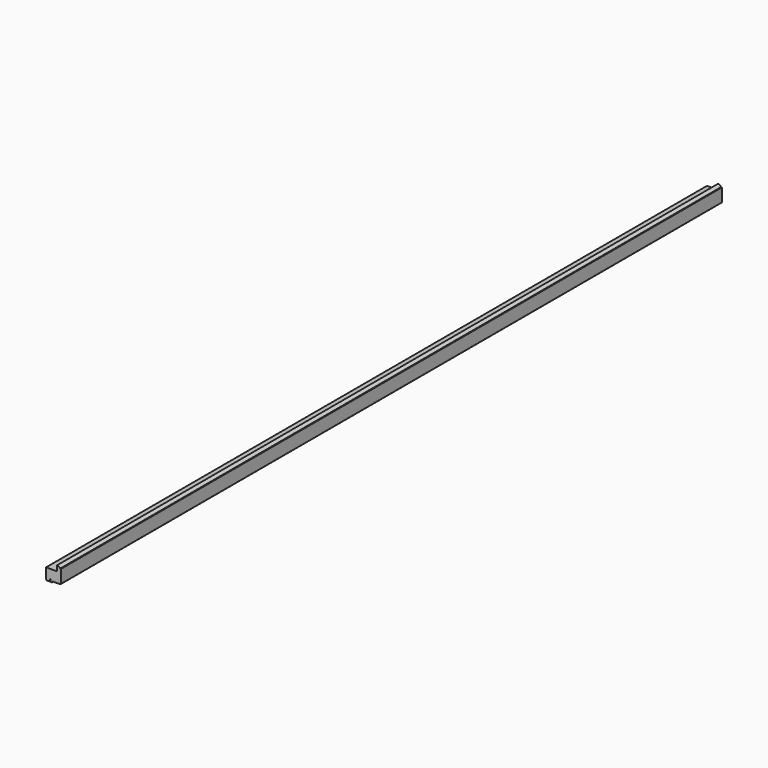
from build123d import *

# Parameters (mm, degrees)
F1_DEPTH = 2438.4


with BuildPart() as f1:
    # F0 (on Front) → F1 (new body)
    with BuildSketch(Plane.XZ):
        with BuildLine():
            ThreePointArc((-3.175, 2.9464), (-0.929936, 3.876336), (0, 6.1214))
            Line((0, 6.1214), (0, 43.8404))
            Line((0, 43.8404), (-2.413, 43.8404))
            ThreePointArc((-2.413, 43.8404), (-6.213483, 47.76885), (-11.3792, 49.5554))
            Line((-11.3792, 49.5554), (-11.3792, 33.4899))
            Line((-11.3792, 33.4899), (-44.1452, 33.4899))
            Line((-44.1452, 33.4899), (-44.1452, 3.175))
            ThreePointArc((-44.1452, 3.175), (-43.215264, 0.929936), (-40.9702, 0))
            Line((-40.9702, 0), (-32.6517, 0))
            Line((-32.6517, 0), (-32.6517, 7.62))
            Line((-32.6517, 7.62), (-30.7721, 7.62))
            Line((-30.7721, 7.62), (-30.7721, 0))
            Line((-30.7721, 0), (-26.9621, 0))
            ThreePointArc((-26.9621, 0), (-25.821607, 0.472407), (-25.3492, 1.6129))
            Line((-25.3492, 1.6129), (-25.3492, 2.9464))
            Line((-25.3492, 2.9464), (-3.175, 2.9464))
        make_face()
    extrude(amount=F1_DEPTH)


solid = f1.part
